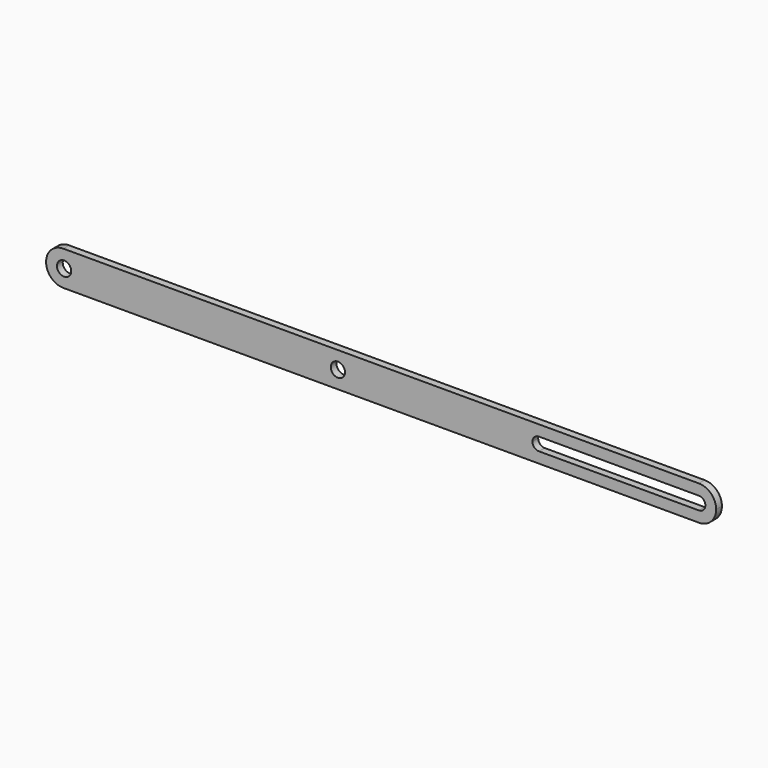
from build123d import *

# Parameters (mm, degrees)
F0_R     = 4.95
F1_DEPTH = 5


with BuildPart() as f1:
    # F0 (on Front) → F1 (new body)
    with BuildSketch(Plane.XZ):
        with BuildLine():
            Line((-220.5, -12), (220.5, -12))
            ThreePointArc((220.5, -12), (228.985281, -8.485281), (232.5, 0))
            ThreePointArc((232.5, 0), (228.985281, 8.485281), (220.5, 12))
            Line((220.5, 12), (-220.5, 12))
            ThreePointArc((-220.5, 12), (-228.985281, 8.485281), (-232.5, 0))
            ThreePointArc((-232.5, 0), (-228.985281, -8.485281), (-220.5, -12))
        make_face()
        with Locations((-220, 0)):
            Circle(F0_R, mode=Mode.SUBTRACT)
        with Locations((-30, 0)):
            Circle(F0_R, mode=Mode.SUBTRACT)
        with BuildLine():
            ThreePointArc((225, 0), (223.681981, -3.181981), (220.5, -4.5))
            Line((220.5, -4.5), (109.5, -4.5))
            ThreePointArc((109.5, -4.5), (106.318019, -3.181981), (105, 0))
            ThreePointArc((105, 0), (106.318019, 3.181981), (109.5, 4.5))
            Line((109.5, 4.5), (220.5, 4.5))
            ThreePointArc((220.5, 4.5), (223.681981, 3.181981), (225, 0))
        make_face(mode=Mode.SUBTRACT)
    extrude(amount=F1_DEPTH)


solid = f1.part
